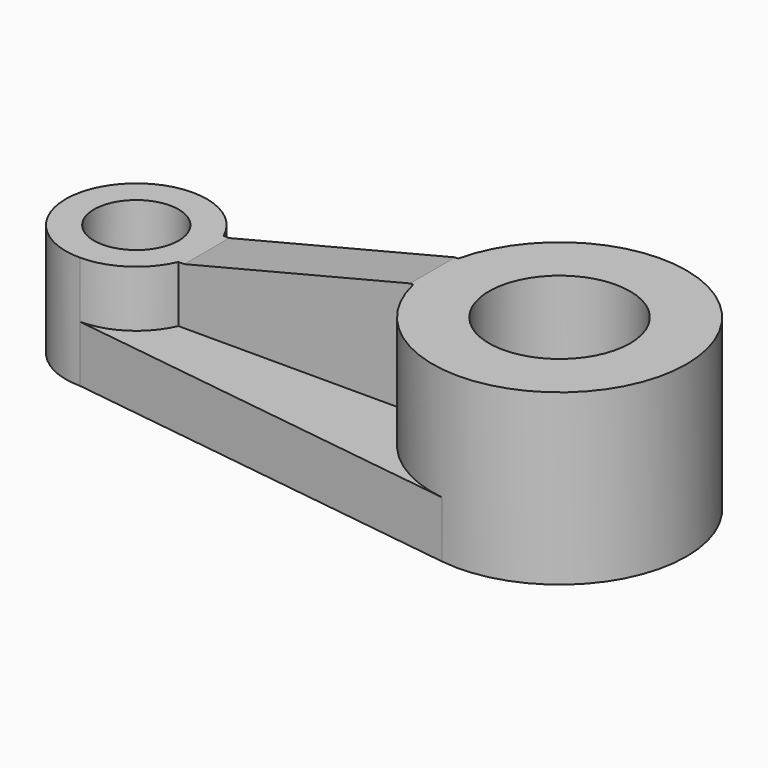
from build123d import *

# Parameters (mm, degrees)
F0_R          = 9.525
F0_R_2        = 15.875
F1_DEPTH      = 12.7
F2_DEPTH      = 38.1
F3_DEPTH      = 25.4
F5_DEPTH      = 38.1
F7_DEPTH      = 6.35
F7_DEPTH_BACK = 6.35


with BuildPart() as f1:
    # F0 (on Top) → F1 (new body)
    with BuildSketch(Plane.XY):
        with BuildLine():
            ThreePointArc((-79.375, 0), (-79.7098622822, 3.2434155936), (-80.7003221685, 6.35))
            ThreePointArc((-80.7003221685, 6.35), (-86.5549043996, 13.2819779212), (-95.25, 15.875))
            ThreePointArc((-95.25, 15.875), (-111.125, 0), (-95.25, -15.875))
            ThreePointArc((-95.25, -15.875), (-86.5549043996, -13.2819779212), (-80.7003221685, -6.35))
            ThreePointArc((-80.7003221685, -6.35), (-79.7098622822, -3.2434155936), (-79.375, 0))
        make_face()
        with Locations((-95.25, 0)):
            Circle(F0_R, mode=Mode.SUBTRACT)
        with BuildLine():
            ThreePointArc((-27.86051193, -6.35), (-28.575, 0), (-27.86051193, 6.35))
            Line((-27.86051193, 6.35), (-80.7003221685, 6.35))
            ThreePointArc((-80.7003221685, 6.35), (-79.7098622822, 3.2434155936), (-79.375, 0))
            ThreePointArc((-79.375, 0), (-79.7098622822, -3.2434155936), (-80.7003221685, -6.35))
            Line((-80.7003221685, -6.35), (-27.86051193, -6.35))
        make_face()
        with BuildLine():
            Line((-80.7003221685, 6.35), (-27.86051193, 6.35))
            ThreePointArc((-27.86051193, 6.35), (-19.2885651774, 21.0827388732), (-3.8535043435, 28.3139740989))
            Line((-3.8535043435, 28.3139740989), (-95.25, 15.875))
            ThreePointArc((-95.25, 15.875), (-86.5549043996, 13.2819779212), (-80.7003221685, 6.35))
        make_face()
        with BuildLine():
            ThreePointArc((-3.8535043435, -28.3139740989), (-19.2885651774, -21.0827388732), (-27.86051193, -6.35))
            Line((-27.86051193, -6.35), (-80.7003221685, -6.35))
            ThreePointArc((-80.7003221685, -6.35), (-86.5549043996, -13.2819779212), (-95.25, -15.875))
            Line((-95.25, -15.875), (-3.8535043435, -28.3139740989))
        make_face()
        with BuildLine():
            ThreePointArc((-3.8535043435, 28.3139740989), (-19.2885651774, 21.0827388732), (-27.86051193, 6.35))
            ThreePointArc((-27.86051193, 6.35), (-28.575, 0), (-27.86051193, -6.35))
            ThreePointArc((-27.86051193, -6.35), (-19.2885651774, -21.0827388732), (-3.8535043435, -28.3139740989))
            ThreePointArc((-3.8535043435, -28.3139740989), (18.7938385965, -21.5249217376), (28.575, 0))
            ThreePointArc((28.575, 0), (18.7938385965, 21.5249217375), (-3.8535043435, 28.3139740989))
        make_face()
        Circle(F0_R_2, mode=Mode.SUBTRACT)
    extrude(amount=F1_DEPTH)

    # F0 (on Top) → F2 (join)
    with BuildSketch(Plane.XY):
        with BuildLine():
            ThreePointArc((-3.8535043435, 28.3139740989), (-19.2885651774, 21.0827388732), (-27.86051193, 6.35))
            ThreePointArc((-27.86051193, 6.35), (-28.575, 0), (-27.86051193, -6.35))
            ThreePointArc((-27.86051193, -6.35), (-19.2885651774, -21.0827388732), (-3.8535043435, -28.3139740989))
            ThreePointArc((-3.8535043435, -28.3139740989), (18.7938385965, -21.5249217376), (28.575, 0))
            ThreePointArc((28.575, 0), (18.7938385965, 21.5249217375), (-3.8535043435, 28.3139740989))
        make_face()
        Circle(F0_R_2, mode=Mode.SUBTRACT)
    extrude(amount=F2_DEPTH)

    # F0 (on Top) → F3 (join)
    with BuildSketch(Plane.XY):
        with BuildLine():
            ThreePointArc((-79.375, 0), (-79.7098622822, 3.2434155936), (-80.7003221685, 6.35))
            ThreePointArc((-80.7003221685, 6.35), (-86.5549043996, 13.2819779212), (-95.25, 15.875))
            ThreePointArc((-95.25, 15.875), (-111.125, 0), (-95.25, -15.875))
            ThreePointArc((-95.25, -15.875), (-86.5549043996, -13.2819779212), (-80.7003221685, -6.35))
            ThreePointArc((-80.7003221685, -6.35), (-79.7098622822, -3.2434155936), (-79.375, 0))
        make_face()
        with Locations((-95.25, 0)):
            Circle(F0_R, mode=Mode.SUBTRACT)
    extrude(amount=F3_DEPTH)

    # F0 (on Top) → F5 (join, through all)
    with BuildSketch(Plane.XY):
        with BuildLine():
            ThreePointArc((-27.86051193, -6.35), (-28.575, 0), (-27.86051193, 6.35))
            Line((-27.86051193, 6.35), (-80.7003221685, 6.35))
            ThreePointArc((-80.7003221685, 6.35), (-79.7098622822, 3.2434155936), (-79.375, 0))
            ThreePointArc((-79.375, 0), (-79.7098622822, -3.2434155936), (-80.7003221685, -6.35))
            Line((-80.7003221685, -6.35), (-27.86051193, -6.35))
        make_face()
    extrude(amount=F5_DEPTH)

    # F6 (on Front) → F7 (cut, two sides)
    with BuildSketch(Plane.XZ) as f7_sk:
        Polygon((-80.7003221685, 25.4), (-79.375, 25.4), (-28.575, 38.1), (-80.7003221685, 38.1), align=None)
    extrude(amount=-F7_DEPTH, mode=Mode.SUBTRACT)
    extrude(f7_sk.sketch, amount=F7_DEPTH_BACK, mode=Mode.SUBTRACT)


solid = f1.part
